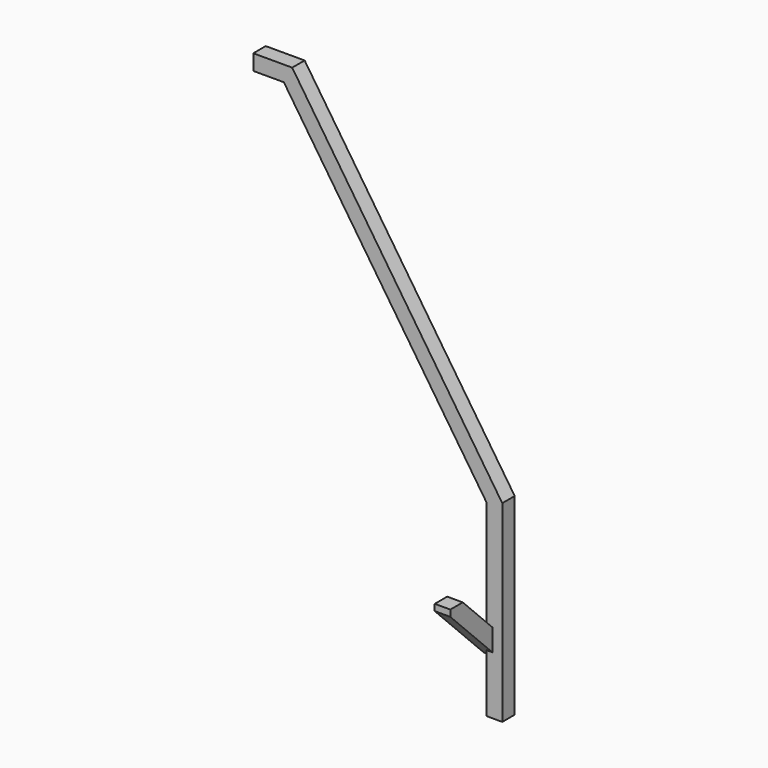
from build123d import *

# Parameters (mm, degrees)
F1_DEPTH = 80
F3_DEPTH = 80


with BuildPart() as f1:
    # F0 (on Right) → F1 (new body)
    with BuildSketch(Plane.YZ):
        Polygon((-33.137191, 0), (0, 0), (0, 79.999894), (-270.000041, 349.999934), (-349.999994, 349.999934), (-349.999994, 316.862803), align=None)
    extrude(amount=F1_DEPTH)


with BuildPart() as f3:
    # F2 (on Front) → F3 (new body)
    with BuildSketch(Plane.XZ):
        Polygon((-1148.861766, 2278.30151), (-991.676582, 2278.30151), (51.138578, 714.078768), (51.138578, -251.6983), (131.138578, -251.6983), (131.138578, 738.300819), (-948.861881, 2358.30151), (-1148.861766, 2358.30151), align=None)
    extrude(amount=F3_DEPTH)


solid = Compound([f1.part, f3.part])
